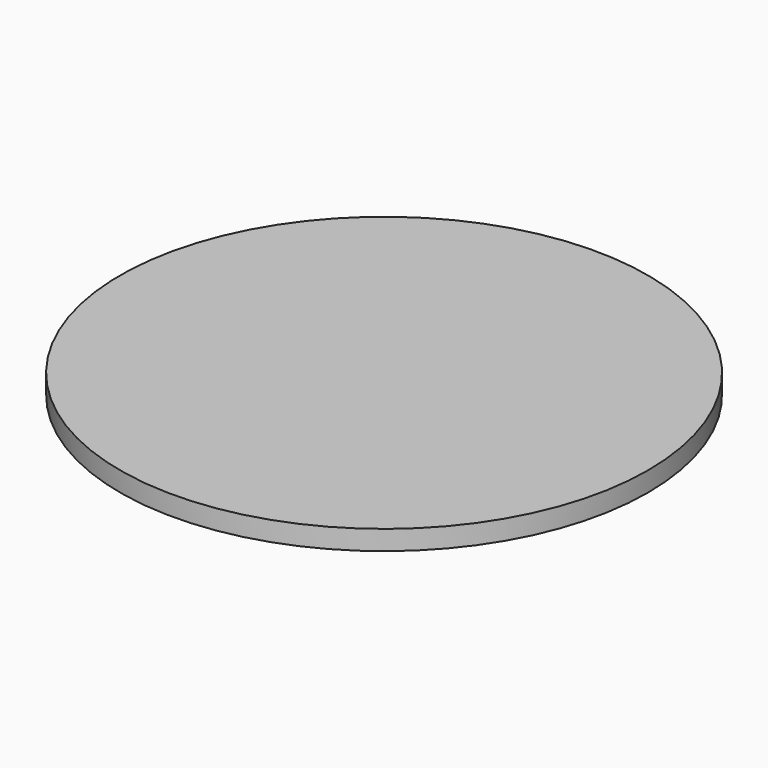
from build123d import *

# Parameters (mm, degrees)
F0_R     = 700
F1_DEPTH = 2
F2_R     = 700
F2_R_2   = 699
F3_DEPTH = 50
F4_R     = 6
F5_DEPTH = 300


with BuildPart() as f1:
    # F0 (on Top) → F1 (new body)
    with BuildSketch(Plane.XY):
        Circle(F0_R)
    extrude(amount=F1_DEPTH)

    # F2 (on face) → F3 (join)
    with BuildSketch(Plane(origin=(0, 0, 0), x_dir=(1, 0, 0), z_dir=(0, 0, -1))):
        Circle(F2_R)
        Circle(F2_R_2, mode=Mode.SUBTRACT)
    extrude(amount=F3_DEPTH)

    # F4 (on face) → F5 (join)
    with BuildSketch(Plane(origin=(0, 0, 0), x_dir=(1, 0, 0), z_dir=(0, 0, -1))):
        with Locations((-150, 0)):
            Circle(F4_R)
        with Locations((0, 150)):
            Circle(F4_R)
        with Locations((150, 0)):
            Circle(F4_R)
        with Locations((0, -150)):
            Circle(F4_R)
    extrude(amount=F5_DEPTH)


solid = f1.part
